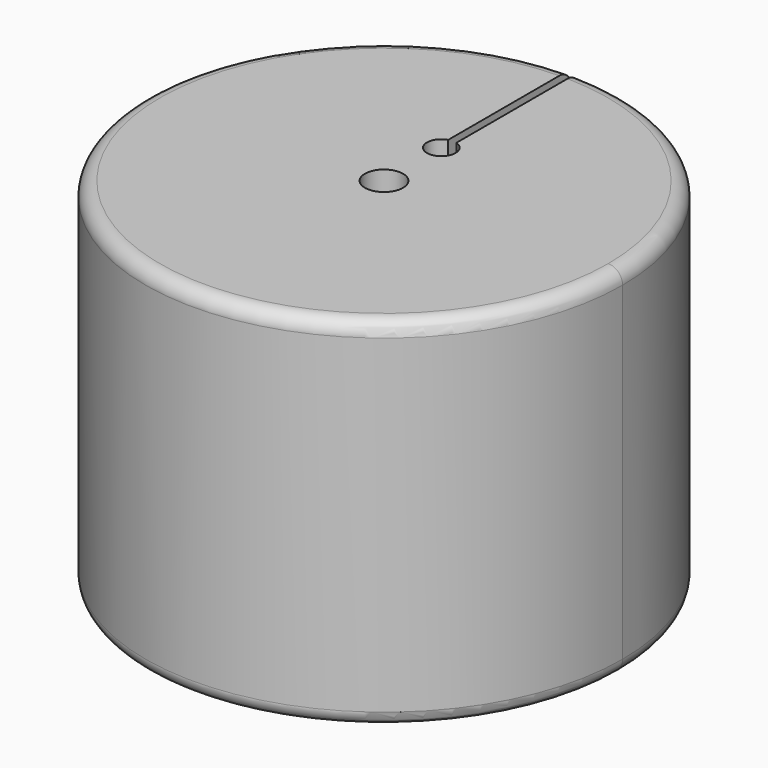
from build123d import *

# Parameters (mm, degrees)
SKETCH_R     = 50
SKETCH_R_2   = 4
PAD_DEPTH    = 75
FILLET_R     = 3
SKETCH001_R  = 3
SKETCH001_W  = 1.7
SKETCH001_H  = 50
POCKET_DEPTH = 75.001


with BuildPart() as part:
    # Sketch → Pad (new body)
    with BuildSketch(Plane.XY):
        Circle(SKETCH_R)
        Circle(SKETCH_R_2, mode=Mode.SUBTRACT)
    extrude(amount=PAD_DEPTH)

    # Fillet
    fillet_edges = [part.edges().sort_by_distance(p)[0] for p in [
        (-50, 0, 0),
        (-50, 0, 75),
    ]]
    fillet(fillet_edges, radius=FILLET_R)

    # Sketch001 (on Face5 of Fillet) → Pocket (cut, through all)
    with BuildSketch(Plane.XY.offset(75)):
        with Locations((0, 15)):
            Circle(SKETCH001_R)
        with Locations((0, 40)):
            Rectangle(SKETCH001_W, SKETCH001_H)
    extrude(amount=-POCKET_DEPTH, mode=Mode.SUBTRACT)


solid = part.part
